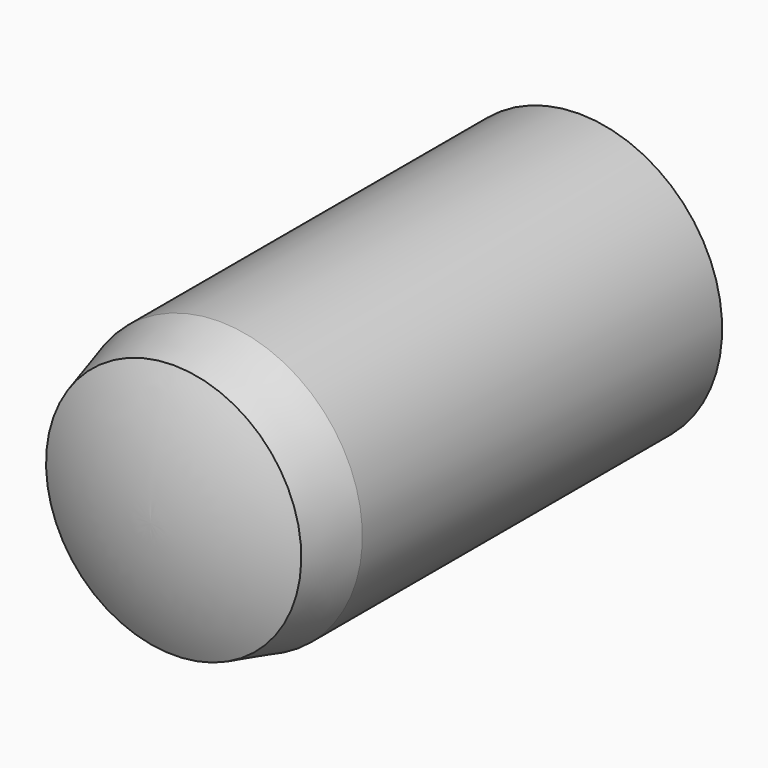
from build123d import *


with BuildPart() as part:
    # Sketch → Revolution (revolve)
    with BuildSketch(Plane.YZ):
        with BuildLine():
            ThreePointArc((0, 4.464102), (-0.74694, 2.287368), (-1, 0))
            Line((-1, 0), (19, 0))
            ThreePointArc((19, 0), (18.677053, 2.579613), (17.728146, 5))
            Line((2, 5), (17.728146, 5))
            Line((0, 4.464102), (2, 5))
        make_face()
    revolve(axis=Axis((0, 0, 0), (0, 1, 0)))


solid = part.part
